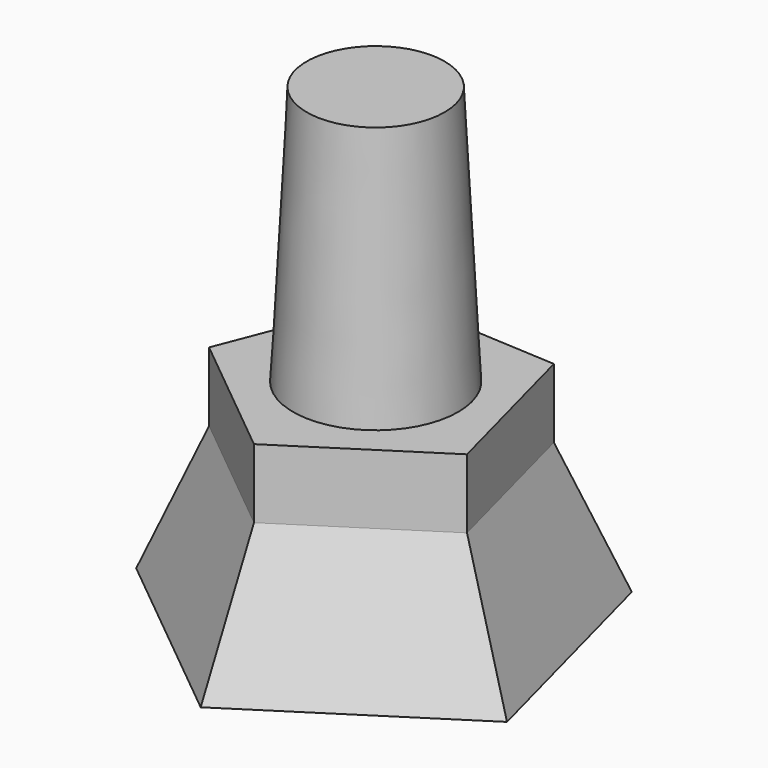
from build123d import *

# Parameters (mm, degrees)
F1_DEPTH      = 40
F1_TAPER      = -20
F1_DEPTH_BACK = 20
F2_R          = 24.9048411139
F3_DEPTH      = 95
F3_TAPER      = 3


with BuildPart() as f1:
    # F0 (on Top) → F1 (new body, two sides)
    with BuildSketch(Plane.XY) as f1_sk:
        Polygon((-2.332799099, -41.0736999903), (38.3425354581, -14.9110951032), (26.029789227, 31.8581364071), (-22.2552409959, 34.600506221), (-39.7842845902, -10.4738475346), align=None)
    extrude(amount=-F1_DEPTH, taper=F1_TAPER)
    extrude(f1_sk.sketch, amount=F1_DEPTH_BACK)

    # F2 (on Top) → F3 (join)
    with BuildSketch(Plane.XY):
        Circle(F2_R)
    extrude(amount=F3_DEPTH, taper=F3_TAPER)


solid = f1.part
